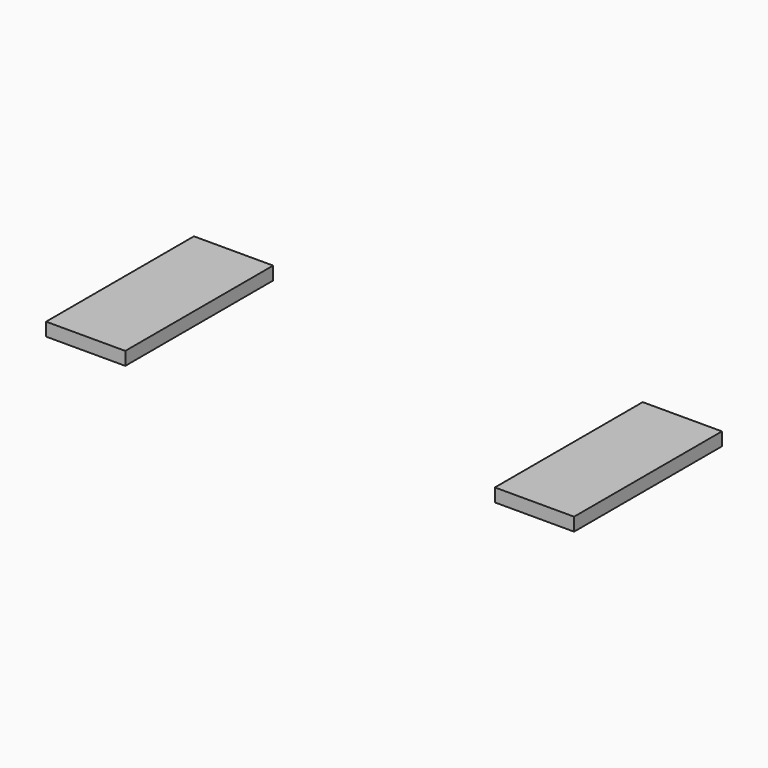
from build123d import *

# Parameters (mm, degrees)
SKETCH009_W  = 0.6
SKETCH009_H  = 1.4
PAD006_DEPTH = 0.1


with BuildPart() as terminal:
    # Sketch009 → Pad006 (new body)
    with BuildSketch(Plane.XY):
        with Locations((-1.7, 0)):
            Rectangle(SKETCH009_W, SKETCH009_H)
    extrude(amount=PAD006_DEPTH)


with BuildPart() as fusion:
    # Mirror: instance of Terminal
    add(terminal.part.mirror(Plane(origin=(0, 0, 0), x_dir=(0, -1, 0), z_dir=(1, 0, 0))))

    # Fusion: union Terminal
    add(terminal.part)


solid = fusion.part
